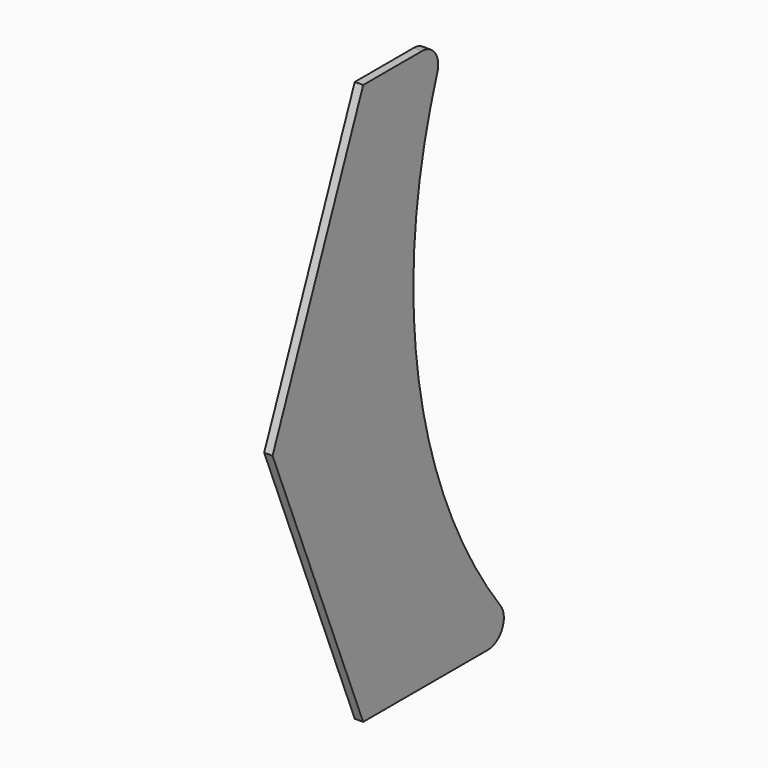
from build123d import *

# Parameters (mm, degrees)
F1_DEPTH = 2.5


with BuildPart() as f1:
    # F0 (on Right) → F1 (new body)
    with BuildSketch(Plane.YZ):
        with BuildLine():
            ThreePointArc((-3.018316, 75.444877), (-3.793379, 80.894136), (-8.684346, 83.418731))
            Line((-8.684346, 83.418731), (-30.6, 83.418731))
            Line((-30.6, 83.418731), (-64.303355, 0))
            Line((-64.303355, 0), (-30.6, -83.418731))
            Line((-30.6, -83.418731), (15.726308, -83.418731))
            ThreePointArc((15.726308, -83.418731), (21.098828, -80.090065), (20.510239, -73.797405))
            ThreePointArc((20.510239, -73.797405), (-9.973866, -2.127509), (-3.018316, 75.444877))
        make_face()
    extrude(amount=F1_DEPTH)


solid = f1.part
